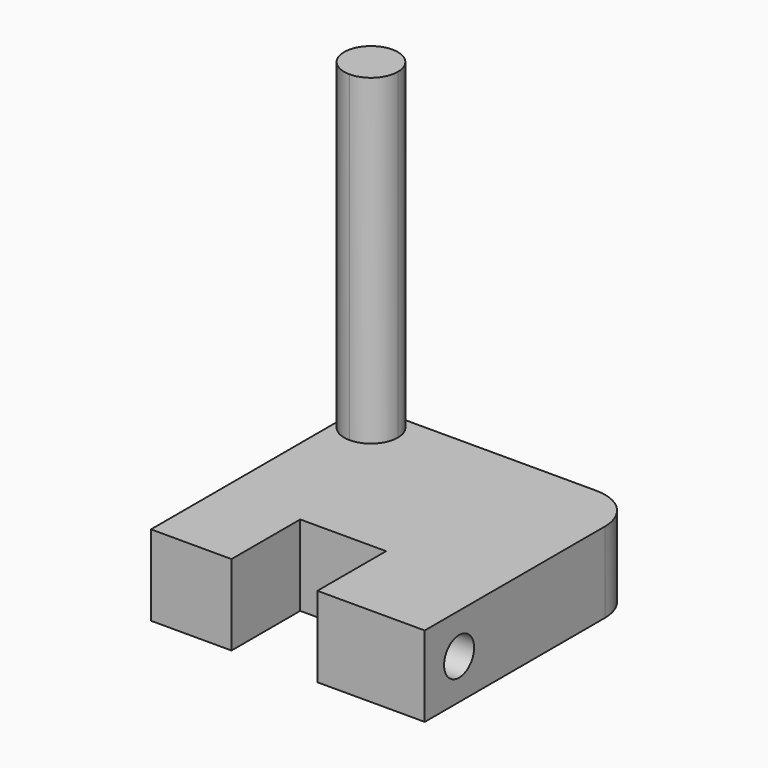
from build123d import *

# Parameters (mm, degrees)
F1_DEPTH = 9.525
F3_DEPTH = 38.1
F4_R     = 2.2225
F5_DEPTH = 12.7
F6_R     = 5.08
F7_DEPTH = 9.525


with BuildPart() as f1:
    # F0 (on Top) → F1 (new body)
    with BuildSketch(Plane.XY):
        with BuildLine():
            Line((-10.16, -16.51), (-10.16, -6.35))
            Line((-10.16, -6.35), (0, -6.35))
            Line((0, -6.35), (0, -16.51))
            Line((0, -16.51), (12.7, -16.51))
            Line((12.7, -16.51), (12.7, -6.35))
            Line((12.7, -6.35), (12.7, 15.231052))
            Line((12.7, 15.231052), (-16.51, 15.231052))
            ThreePointArc((-16.51, 15.231052), (-18.755064, 14.301116), (-19.685, 12.056052))
            ThreePointArc((-19.685, 12.056052), (-18.755064, 9.810988), (-16.51, 8.881052))
            Line((-16.51, 8.881052), (-16.51, -16.51))
            Line((-16.51, -16.51), (-10.16, -16.51))
        make_face()
    extrude(amount=F1_DEPTH)

    # F2 (on face) → F3 (join)
    with BuildSketch(Plane.XY.offset(9.525)):
        with BuildLine():
            ThreePointArc((-16.51, 8.881052), (-14.264936, 9.810988), (-13.335, 12.056052))
            ThreePointArc((-13.335, 12.056052), (-14.264936, 14.301116), (-16.51, 15.231052))
            ThreePointArc((-16.51, 15.231052), (-19.685, 12.056052), (-16.51, 8.881052))
        make_face()
    extrude(amount=F3_DEPTH)

    # F4 (on face) → F5 (cut, through all)
    with BuildSketch(Plane.YZ.offset(12.7)):
        with Locations((-11.43, 4.7625)):
            Circle(F4_R)
    extrude(amount=-F5_DEPTH, mode=Mode.SUBTRACT)

    # F6
    f6_edges = [f1.edges().sort_by_distance(p)[0] for p in [
        (12.7, 15.231052, 4.7625),
    ]]
    fillet(f6_edges, radius=F6_R)

    # F0 (on Top) → F7 (join)
    with BuildSketch(Plane.XY):
        with BuildLine():
            Line((-19.685, -16.51), (-16.51, -16.51))
            Line((-16.51, -16.51), (-16.51, 8.881052))
            ThreePointArc((-16.51, 8.881052), (-18.755064, 9.810988), (-19.685, 12.056052))
            Line((-19.685, 12.056052), (-19.685, -16.51))
        make_face()
    extrude(amount=F7_DEPTH)


solid = f1.part
